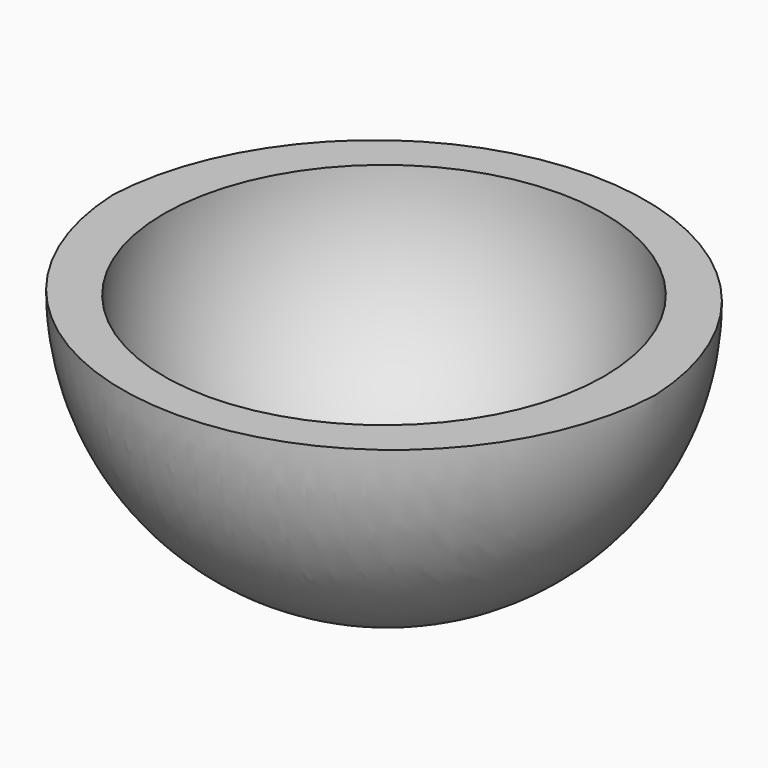
from build123d import *

# Parameters (mm, degrees)
F1_ANGLE = -180
F2_DEPTH = 2.54


with BuildPart() as f1:
    # F0 (on Top) → F1 (revolve)
    with BuildSketch(Plane.XY):
        with BuildLine():
            Line((26.632098, 0), (32.815162, 0))
            ThreePointArc((32.815162, 0), (0, 31.373449), (-32.815162, 0))
            Line((-32.815162, 0), (-26.632098, 0))
            ThreePointArc((-26.632098, 0), (0, 26.632098), (26.632098, 0))
        make_face()
    revolve(axis=Axis((0, 0, 0), (1, 0, 0)), revolution_arc=F1_ANGLE)

    # F0 (on Top) → F2 (cut)
    with BuildSketch(Plane.XY):
        with BuildLine():
            Line((26.632098, 0), (32.815162, 0))
            ThreePointArc((32.815162, 0), (0, 31.373449), (-32.815162, 0))
            Line((-32.815162, 0), (-26.632098, 0))
            ThreePointArc((-26.632098, 0), (0, 26.632098), (26.632098, 0))
        make_face()
        with BuildLine():
            ThreePointArc((-26.632098, 0), (0, -26.632098), (26.632098, 0))
            Line((26.632098, 0), (-26.632098, 0))
        make_face()
    extrude(amount=F2_DEPTH, mode=Mode.SUBTRACT)


solid = f1.part
